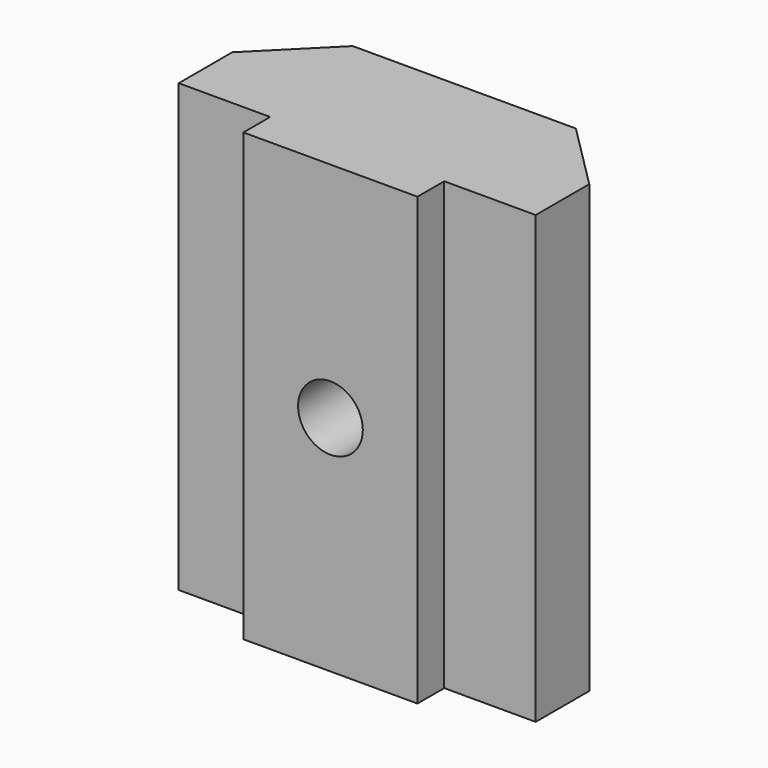
from build123d import *

# Parameters (mm, degrees)
CYLINDER016017_R            = 1.45
CYLINDER016017_DEPTH        = 10
CYLINDER016015_R            = 3.1
CYLINDER016015_DEPTH        = 10
CYLINDER016016_R            = 3.1
CYLINDER016016_DEPTH        = 10
BOX021_W                    = 7.8
BOX021_H                    = 7.5
BOX021_DEPTH                = 20
BOX022_W                    = 16
BOX022_H                    = 6
BOX022_DEPTH                = 20
CHAMFER016016008004002_SIZE = 3


with BuildPart() as cylinder033:
    # Cylinder016017 → Cylinder016017 (new body)
    with BuildSketch(Plane(origin=(0, 0.5, 10), x_dir=(1, 0, 0), z_dir=(0, 1, 0))):
        Circle(CYLINDER016017_R)
    extrude(amount=CYLINDER016017_DEPTH)


with BuildPart() as cylinder031:
    # Cylinder016015 → Cylinder016015 (new body)
    with BuildSketch(Plane(origin=(0, 0.5, 4), x_dir=(1, 0, 0), z_dir=(0, 1, 0))):
        Circle(CYLINDER016015_R)
    extrude(amount=CYLINDER016015_DEPTH)


with BuildPart() as fusion018004:
    # Cylinder016016 → Cylinder016016 (new body)
    with BuildSketch(Plane(origin=(0, 0.5, 16), x_dir=(1, 0, 0), z_dir=(0, 1, 0))):
        Circle(CYLINDER016016_R)
    extrude(amount=CYLINDER016016_DEPTH)

    # Fusion018004: union Cylinder031
    add(cylinder031.part)


with BuildPart() as fusion018004_1:
    # Fusion018004 placement: moved
    add(fusion018004.part.moved(Location((0, 1, 0))))


with BuildPart() as cube021:
    # Box021 → Box021 (new body)
    with BuildSketch(Plane(origin=(-3.9, 0.5, 0), x_dir=(1, 0, 0), z_dir=(0, 0, 1))):
        with Locations((3.9, 3.75)):
            Rectangle(BOX021_W, BOX021_H)
    extrude(amount=BOX021_DEPTH)


with BuildPart() as magnet_nut:
    # Box022 → Box022 (new body)
    with BuildSketch(Plane(origin=(-8, 2, 0), x_dir=(1, 0, 0), z_dir=(0, 0, 1))):
        with Locations((8, 3)):
            Rectangle(BOX022_W, BOX022_H)
    extrude(amount=BOX022_DEPTH)

    # Chamfer016016008004002
    chamfer016016008004002_edges = [magnet_nut.edges().sort_by_distance(p)[0] for p in [
        (-8, 8, 10),
        (8, 8, 10),
    ]]
    chamfer(chamfer016016008004002_edges, length=CHAMFER016016008004002_SIZE)

    # Fusion018005: union Cube021
    add(cube021.part)

    # Cut010011008008: cut Fusion018004
    add(fusion018004_1.part, mode=Mode.SUBTRACT)

    # Cut010011008009: cut Cylinder033
    add(cylinder033.part, mode=Mode.SUBTRACT)


solid = magnet_nut.part
